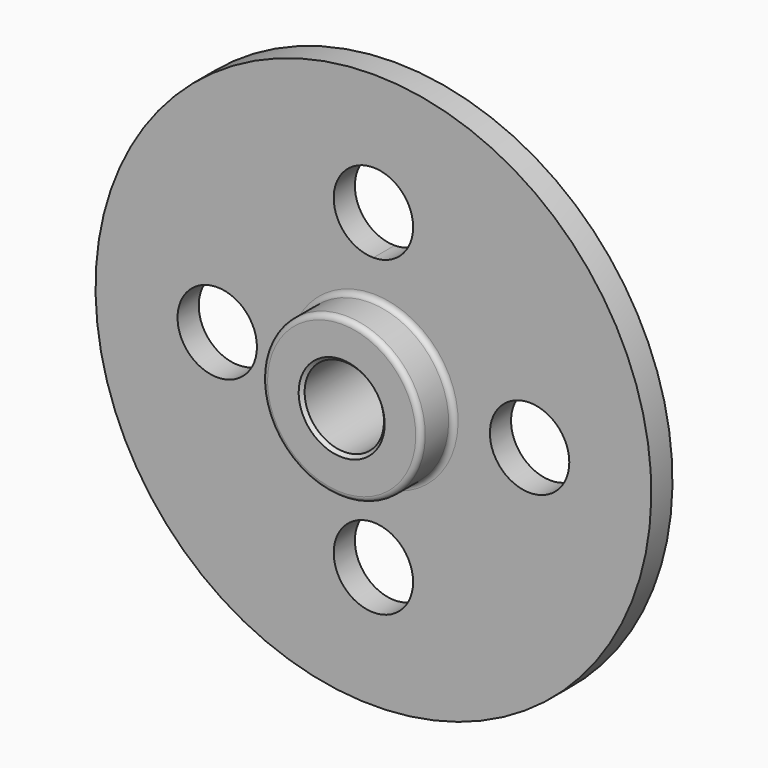
from build123d import *

# Parameters (mm, degrees)
F2_R     = 19.05
F3_DEPTH = 25.4
F4_R     = 2.54
F5_SIZE  = 1.5875


with BuildPart() as f1:
    # F0 (on Right) → F1 (revolve)
    with BuildSketch(Plane.YZ):
        Polygon((-25.4, 19.05), (0, 19.05), (25.4, 19.05), (25.4, 38.1), (6.35, 38.1), (6.35, 107.95), (6.35, 133.35), (0, 133.35), (-6.35, 133.35), (-6.35, 38.1), (-25.4, 38.1), align=None)
    revolve(axis=Axis((0, 38.3921, 0), (0, 1, 0)))

    # F2 (on face) → F3 (cut)
    with BuildSketch(Plane.XZ.offset(6.35)):
        with BuildLine():
            ThreePointArc((19.05, 74.942701), (-13.470384, 88.413085), (0, 55.892701))
            ThreePointArc((0, 55.892701), (13.470384, 61.472316), (19.05, 74.942701))
        make_face()
        with Locations((-74.942701, 0)):
            Circle(F2_R)
        with Locations((0, -74.942701)):
            Circle(F2_R)
        with Locations((74.942701, 0)):
            Circle(F2_R)
    extrude(amount=-F3_DEPTH, mode=Mode.SUBTRACT)

    # F4
    f4_edges = [f1.edges().sort_by_distance(p)[0] for p in [
        (0, -6.35, -38.1),
        (0, -25.4, -38.1),
        (0, 6.35, -38.1),
        (0, 25.4, -38.1),
    ]]
    fillet(f4_edges, radius=F4_R)

    # F5
    f5_edges = [f1.edges().sort_by_distance(p)[0] for p in [
        (0, -25.4, -19.05),
        (0, 25.4, -19.05),
    ]]
    chamfer(f5_edges, length=F5_SIZE)


solid = f1.part
